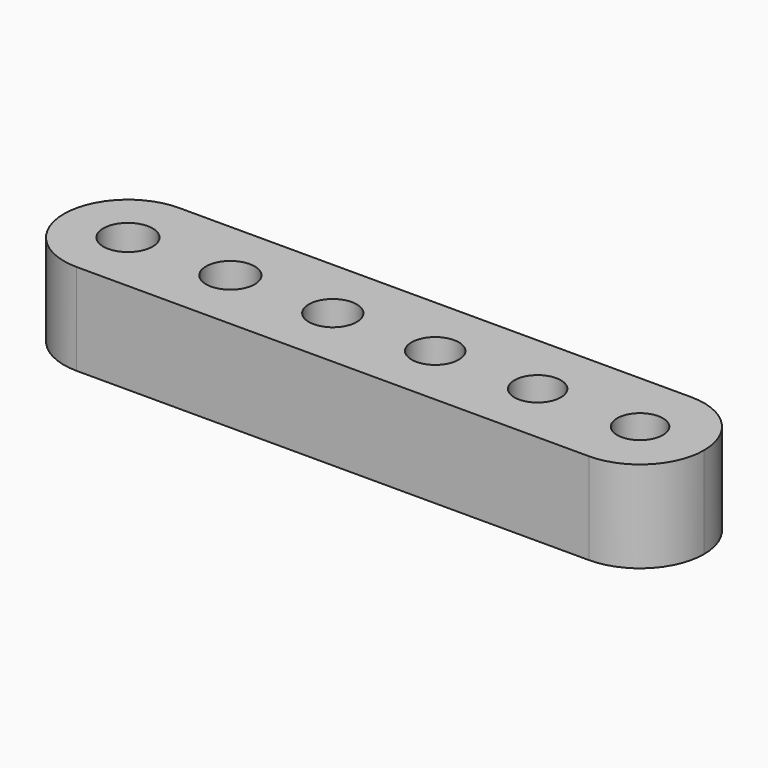
from build123d import *

# Parameters (mm, degrees)
F0_R     = 1.7145
F0_R_2   = 1.6891
F0_R_3   = 1.6637
F0_R_4   = 1.6383
F0_R_5   = 1.6129
F0_R_6   = 1.5875
F1_DEPTH = 6.35


with BuildPart() as f1:
    # F0 (on Top) → F1 (new body)
    with BuildSketch(Plane.XY):
        with BuildLine():
            Line((17.779994, 4.445), (0, 4.445))
            Line((0, 4.445), (-17.779994, 4.445))
            ThreePointArc((-17.779994, 4.445), (-20.923083, 3.14309), (-22.224994, 0))
            ThreePointArc((-22.224994, 0), (-20.923083, -3.14309), (-17.779994, -4.445))
            Line((-17.779994, -4.445), (0, -4.445))
            Line((0, -4.445), (17.779994, -4.445))
            ThreePointArc((17.779994, -4.445), (20.923083, -3.14309), (22.224994, 0))
            ThreePointArc((22.224994, 0), (20.923083, 3.14309), (17.779994, 4.445))
        make_face()
        with Locations((-17.779994, 0)):
            Circle(F0_R, mode=Mode.SUBTRACT)
        with Locations((-10.668006, 0)):
            Circle(F0_R_2, mode=Mode.SUBTRACT)
        with Locations((-3.556006, 0)):
            Circle(F0_R_3, mode=Mode.SUBTRACT)
        with Locations((3.555994, 0)):
            Circle(F0_R_4, mode=Mode.SUBTRACT)
        with Locations((10.667994, 0)):
            Circle(F0_R_5, mode=Mode.SUBTRACT)
        with Locations((17.779994, 0)):
            Circle(F0_R_6, mode=Mode.SUBTRACT)
    extrude(amount=F1_DEPTH)


solid = f1.part
